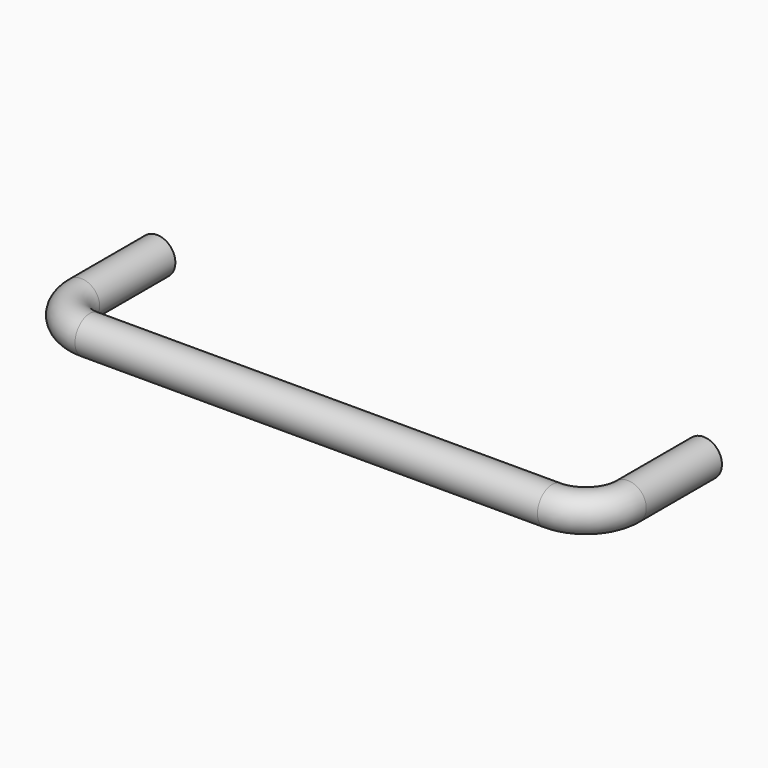
from build123d import *

# Parameters (mm, degrees)
F1_R   = 11.1125
F1_R_2 = 4.7625


with BuildPart() as f2:
    # F2: sweep along a path in F0
    with BuildLine(Plane.XY) as f2_path:
        Line((0, 0), (0, -57.15))
        ThreePointArc((0, -57.15), (7.4394877579, -75.1105122421), (25.4, -82.55))
        Line((25.4, -82.55), (304.8, -82.55))
        ThreePointArc((304.8, -82.55), (322.7605122421, -75.1105122421), (330.2, -57.15))
        Line((330.2, -57.15), (330.2, 0))
    # F1 (on Front) → F2 (sweep)
    with BuildSketch(Plane.XZ):
        Circle(F1_R)
        Circle(F1_R_2, mode=Mode.SUBTRACT)
    sweep(path=f2_path.line)


solid = f2.part
